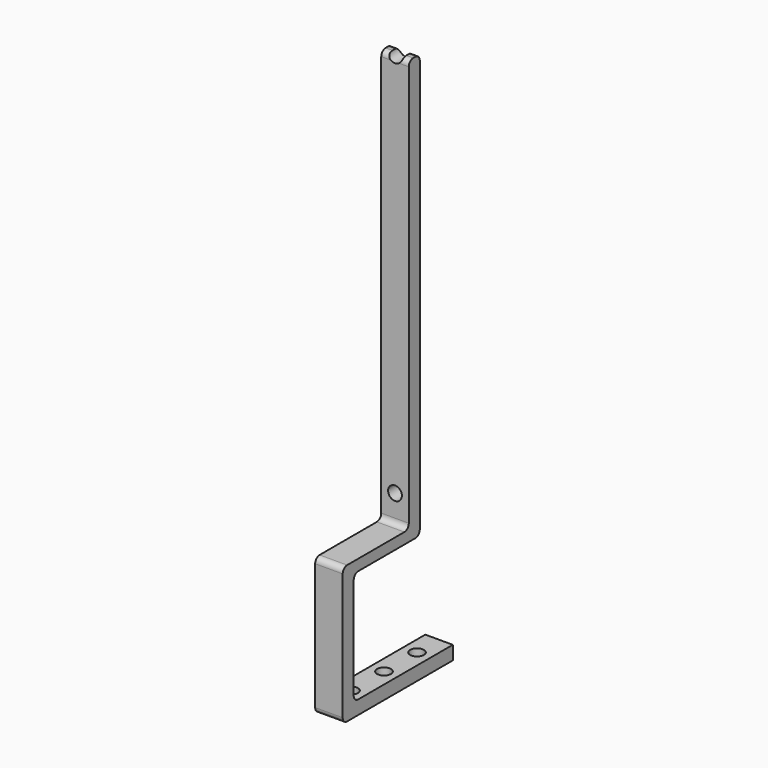
from build123d import *

# Parameters (mm, degrees)
F1_DEPTH = 10
F2_R     = 2.5
F3_DEPTH = 5
F4_R     = 2.5
F5_DEPTH = 5
F6_R     = 2


with BuildPart() as f1:
    # F0 (on Right) → F1 (new body)
    with BuildSketch(Plane.YZ):
        Polygon((-30, 0), (20, 0), (20, 5), (-25, 5), (-25, 46), (5, 46), (5, 200), (0, 200), (0, 50), (-30, 50), align=None)
    extrude(amount=F1_DEPTH)

    # F2 (on face) → F3 (cut, through all)
    with BuildSketch(Plane.XZ):
        with BuildLine():
            ThreePointArc((2.5, 200), (5, 197.5), (7.5, 200))
            Line((7.5, 200), (2.5, 200))
        make_face()
        with Locations((5, 60)):
            Circle(F2_R)
    extrude(amount=-F3_DEPTH, mode=Mode.SUBTRACT)

    # F4 (on face) → F5 (cut, through all)
    with BuildSketch(Plane(origin=(0, 0, 0), x_dir=(1, 0, 0), z_dir=(0, 0, -1))):
        with Locations((5, 20)):
            Circle(F4_R)
        with Locations((5, 5)):
            Circle(F4_R)
        with Locations((5, -10)):
            Circle(F4_R)
    extrude(amount=-F5_DEPTH, mode=Mode.SUBTRACT)

    # F6
    f6_edges = [f1.edges().sort_by_distance(p)[0] for p in [
        (5, -30, 50),
        (5, -25, 46),
        (5, -30, 0),
        (5, -25, 5),
        (5, 5, 46),
        (5, 0, 50),
        (1.25, 5, 200),
        (8.75, 5, 200),
        (1.25, 0, 200),
        (8.75, 0, 200),
    ]]
    fillet(f6_edges, radius=F6_R)


solid = f1.part
